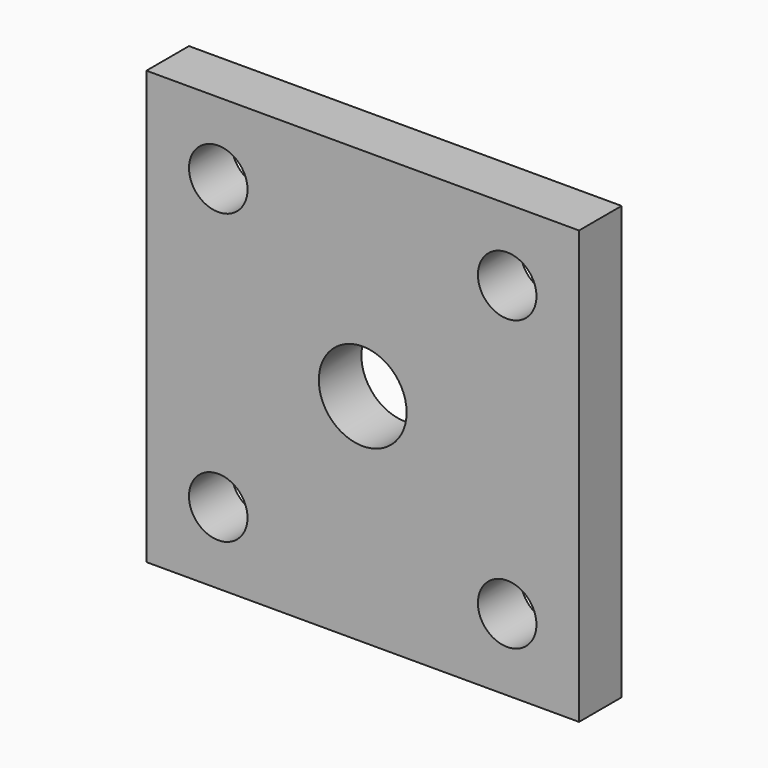
from build123d import *

# Parameters (mm, degrees)
F0_W     = 812.8
F0_H     = 812.8
F0_R     = 55
F0_R_2   = 82.5
F1_DEPTH = 100


with BuildPart() as f1:
    # F0 (on Front) → F1 (new body)
    with BuildSketch(Plane.XZ):
        Rectangle(F0_W, F0_H)
        with Locations((-271.4, -271.4)):
            Circle(F0_R, mode=Mode.SUBTRACT)
        Circle(F0_R_2, mode=Mode.SUBTRACT)
        with Locations((271.4, -271.4)):
            Circle(F0_R, mode=Mode.SUBTRACT)
        with Locations((-271.4, 271.4)):
            Circle(F0_R, mode=Mode.SUBTRACT)
        with Locations((271.4, 271.4)):
            Circle(F0_R, mode=Mode.SUBTRACT)
    extrude(amount=F1_DEPTH)


solid = f1.part
